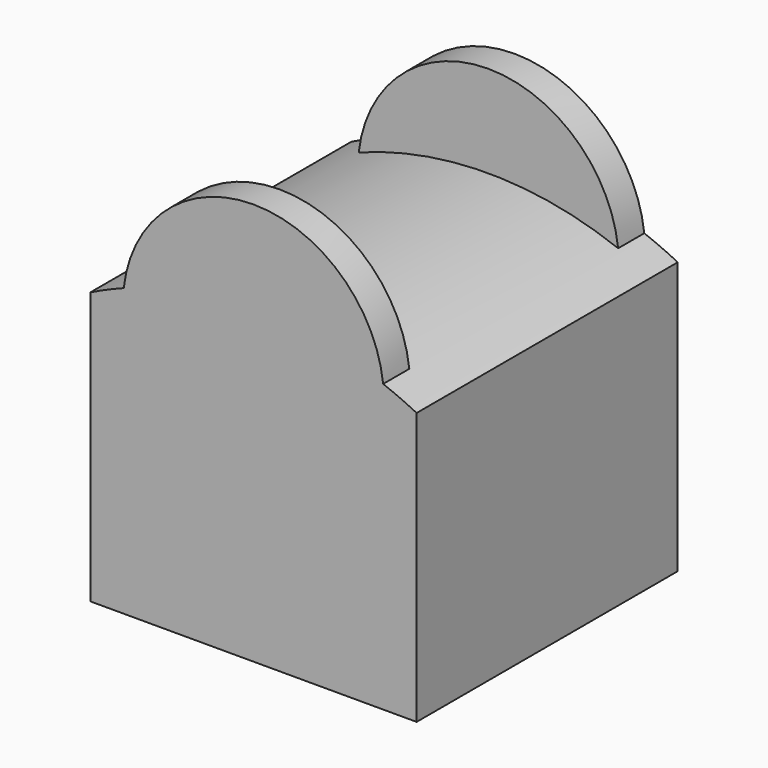
from build123d import *

# Parameters (mm, degrees)
F0_W          = 30
F0_H          = 30
F0_W_2        = 24
F0_H_2        = 24
F1_DEPTH      = 25
F3_DEPTH      = 15
F3_DEPTH_BACK = 15
F5_DEPTH      = 3
F7_DEPTH      = 3


with BuildPart() as f1:
    # F0 (on Top) → F1 (new body)
    with BuildSketch(Plane.XY):
        Rectangle(F0_W, F0_H)
        Rectangle(F0_W_2, F0_H_2, mode=Mode.SUBTRACT)
    extrude(amount=F1_DEPTH)

    # F2 (on Front) → F3 (join, two sides)
    with BuildSketch(Plane.XZ) as f3_sk:
        with BuildLine():
            Line((12, 25), (15, 25))
            ThreePointArc((15, 25), (0, 28.5410196625), (-15, 25))
            Line((-15, 25), (-12, 25))
            ThreePointArc((-12, 25), (0, 27.3109888428), (12, 25))
        make_face()
    extrude(amount=F3_DEPTH)
    extrude(f3_sk.sketch, amount=-F3_DEPTH_BACK)

    # F4 (on face) → F5 (join, through all)
    with BuildSketch(Plane(origin=(0, 15, 0), x_dir=(-1, 0, 0), z_dir=(0, 1, 0))):
        with BuildLine():
            Line((-12, 25), (12, 25))
            ThreePointArc((12, 25), (0, 37), (-12, 25))
        make_face()
    extrude(amount=-F5_DEPTH)

    # F6 (on face) → F7 (join, through all)
    with BuildSketch(Plane.XZ.offset(15)):
        with BuildLine():
            Line((-12, 25), (12, 25))
            ThreePointArc((12, 25), (0, 37), (-12, 25))
        make_face()
    extrude(amount=-F7_DEPTH)


solid = f1.part
